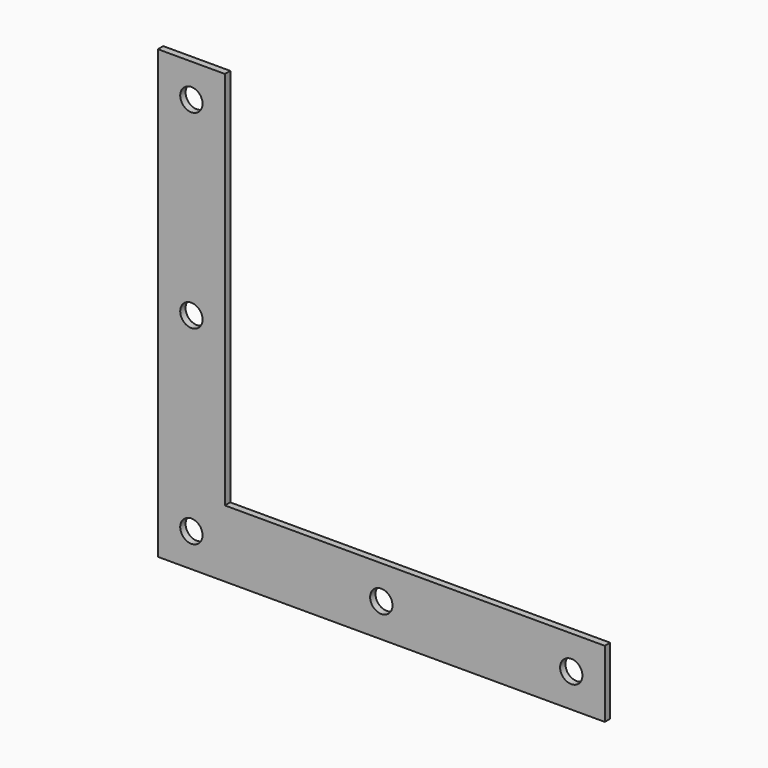
from build123d import *

# Parameters (mm, degrees)
PAD_DEPTH              = 1.5
SKETCH001_R            = 2.5
POCKET_DEPTH           = 1.501
LINEARPATTERN_COUNT    = 3
LINEARPATTERN_PITCH    = 42.5
LINEARPATTERN001_COUNT = 3
LINEARPATTERN001_PITCH = 42.5


with BuildPart() as part:
    # Sketch → Pad (new body)
    with BuildSketch(Plane.XZ):
        Polygon((0, 0), (100, 0), (100, 15), (15, 15), (15, 100), (0, 100), align=None)
    extrude(amount=PAD_DEPTH)

    # Sketch001 (on Face8 of Pad) → Pocket (cut, through all)
    with BuildSketch(Plane.XZ.offset(1.5)):
        with Locations((7.5, 7.5)):
            Circle(SKETCH001_R)
    pocket = extrude(amount=-POCKET_DEPTH, mode=Mode.SUBTRACT)

    # LinearPattern: Pocket ×3
    with Locations(*[(i * LINEARPATTERN_PITCH, 0, 0) for i in range(1, LINEARPATTERN_COUNT)]):
        add(pocket, mode=Mode.SUBTRACT)

    # LinearPattern001: Pocket ×3
    with Locations(*[(0, 0, i * LINEARPATTERN001_PITCH) for i in range(1, LINEARPATTERN001_COUNT)]):
        add(pocket, mode=Mode.SUBTRACT)


solid = part.part
